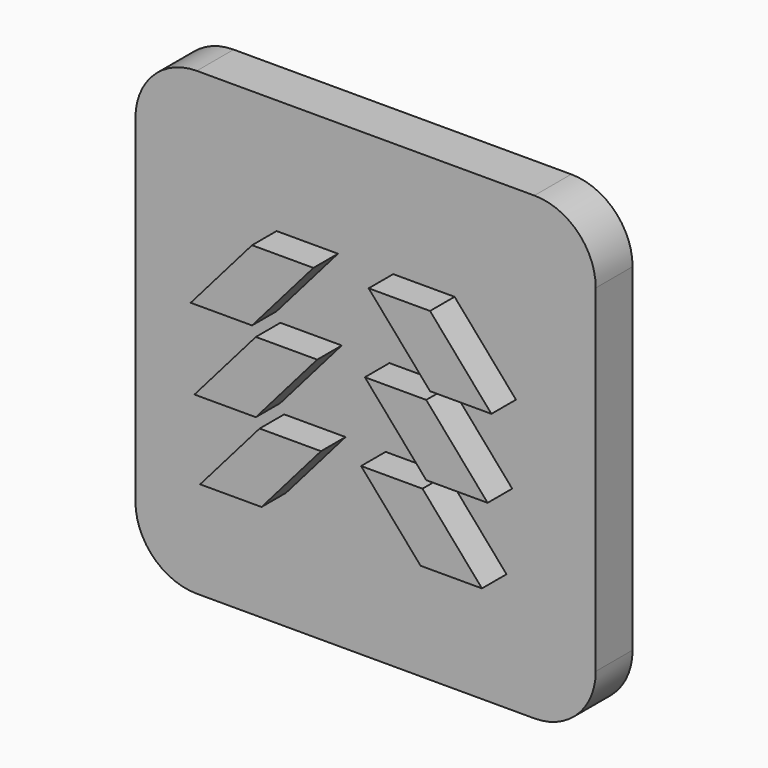
from build123d import *

# Parameters (mm, degrees)
F0_W     = 38.1
F0_H     = 38.1
F1_DEPTH = 3.81
F2_R     = 5.08
F4_DEPTH = 2.54


with BuildPart() as f1:
    # F0 (on Front) → F1 (new body)
    with BuildSketch(Plane.XZ):
        Rectangle(F0_W, F0_H)
    extrude(amount=F1_DEPTH)

    # F2
    f2_edges = [f1.edges().sort_by_distance(p)[0] for p in [
        (19.05, -1.905, 19.05),
        (-19.05, -1.905, 19.05),
        (-19.05, -1.905, -19.05),
        (19.05, -1.905, -19.05),
    ]]
    fillet(f2_edges, radius=F2_R)

    # F3 (on face) → F4 (join)
    with BuildSketch(Plane.XZ.offset(3.81)):
        Polygon((-7.366, 3.678485), (-2.286, 9.525), (-7.366, 9.525), (-12.446, 3.678485), align=None)
        Polygon((-1.973369, 2.942095), (-7.052271, 2.942095), (-12.133434, -2.905793), (-7.053434, -2.905793), align=None)
        Polygon((-1.659051, -3.629045), (-6.739051, -3.629045), (-11.663045, -9.296048), (-6.583045, -9.296048), align=None)
        Polygon((11.663045, -9.296048), (6.739051, -3.629045), (1.659051, -3.629045), (6.583045, -9.296048), align=None)
        Polygon((12.133434, -2.905793), (7.052271, 2.942095), (1.973369, 2.942095), (7.053434, -2.905793), align=None)
        Polygon((2.286, 9.525), (7.366, 3.678485), (12.446, 3.678485), (7.366, 9.525), align=None)
    extrude(amount=F4_DEPTH)


solid = f1.part
